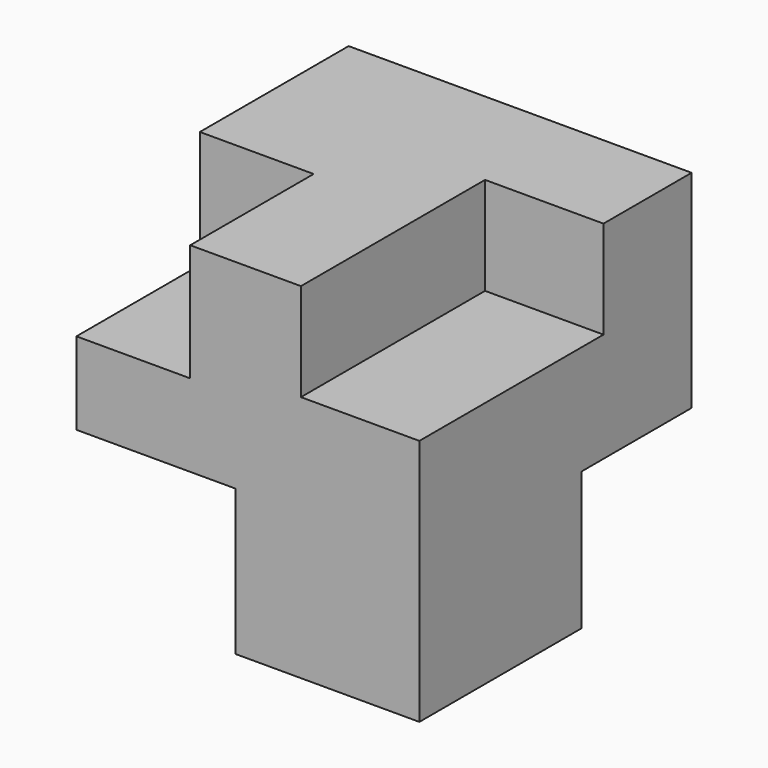
from build123d import *

# Parameters (mm, degrees)
F0_W      = 75.7038891315
F0_H      = 75.1095712185
F1_DEPTH  = 76.1847347021
F3_DEPTH  = 7.5595728122
F4_W      = 75.7038891315
F4_H      = 76.1847347021
F5_DEPTH  = 70.3715533018
F6_W      = 35.1695269346
F6_H      = 32.1441143751
F7_DEPTH  = 50.8
F8_W      = 26.1460281909
F8_H      = 21.5719044209
F9_DEPTH  = 50.8
F10_W     = 30.3881298751
F10_H     = 30.4796360433
F11_DEPTH = 50.8
F13_W     = 25.1194015145
F13_H     = 34.0582877398
F14_DEPTH = 25.8685164154


with BuildPart() as f1:
    # F0 (on Top) → F1 (new body)
    with BuildSketch(Plane.XY):
        with Locations((37.8519445658, -37.5547856092)):
            Rectangle(F0_W, F0_H)
    extrude(amount=F1_DEPTH)

    # F2 (on face) → F3 (join)
    with BuildSketch(Plane.XZ.offset(75.1095712185)):
        Polygon((75.7038891315, 0), (38.7951347365, 39.0415483477), (0, 0), align=None)
        Polygon((75.7038891315, 76.1847347021), (37.8519445658, 40.0392413139), (38.7951347365, 39.0415483477), align=None)
        Polygon((75.7038891315, 76.1847347021), (0, 76.1847347021), (37.8519445658, 40.0392413139), align=None)
    extrude(amount=-F3_DEPTH)

    # F4 (on face) → F5 (join)
    with BuildSketch(Plane.XZ.offset(75.1095712185)):
        with Locations((37.8519445658, 38.0923673511)):
            Rectangle(F4_W, F4_H)
    extrude(amount=-F5_DEPTH)

    # F6 (on face) → F7 (cut)
    with BuildSketch(Plane.XZ.offset(75.1095712185)):
        with Locations((17.5847634673, 16.0720571876)):
            Rectangle(F6_W, F6_H)
    extrude(amount=-F7_DEPTH, mode=Mode.SUBTRACT)

    # F8 (on face) → F9 (cut)
    with BuildSketch(Plane.XZ.offset(75.1095712185)):
        with Locations((62.6308750361, 65.3987824917)):
            Rectangle(F8_W, F8_H)
    extrude(amount=-F9_DEPTH, mode=Mode.SUBTRACT)

    # F10 (on face) → F11 (cut)
    with BuildSketch(Plane.YZ.offset(75.7038891315)):
        with Locations((-15.1940649375, 15.2398180217)):
            Rectangle(F10_W, F10_H)
    extrude(amount=-F11_DEPTH, mode=Mode.SUBTRACT)

    # F13 (on face) → F14 (cut)
    with BuildSketch(Plane.XY.offset(76.1847347021)):
        with Locations((12.5597007573, -58.0804273486)):
            Rectangle(F13_W, F13_H)
    extrude(amount=-F14_DEPTH, mode=Mode.SUBTRACT)


solid = f1.part
